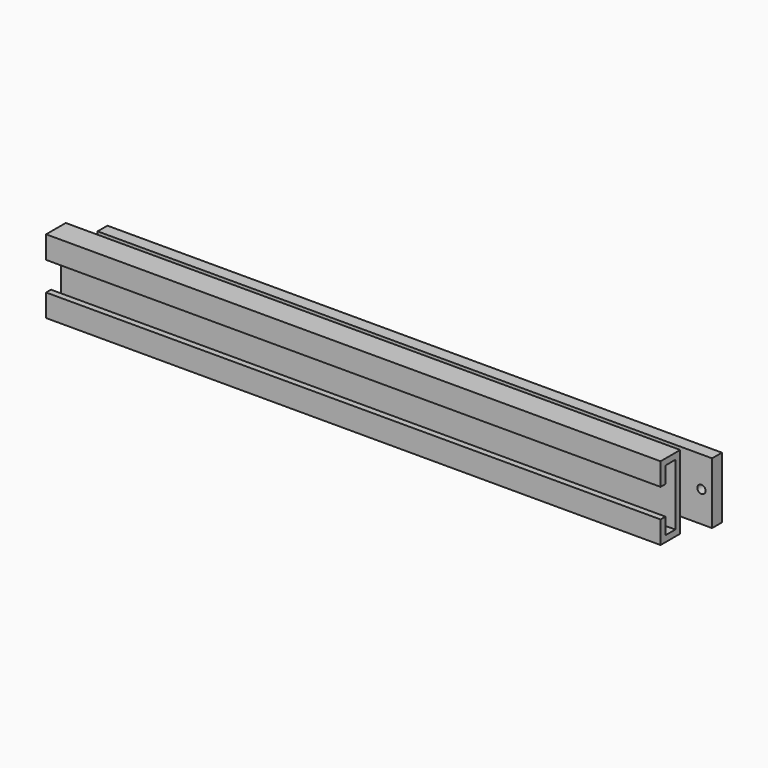
from build123d import *

# Parameters (mm, degrees)
F0_W     = 300
F0_H     = 30
F0_R     = 2
F1_DEPTH = 6
F3_DEPTH = 300


with BuildPart() as f1:
    # F0 (on Front) → F1 (new body)
    with BuildSketch(Plane.XZ):
        with Locations((150, 15)):
            Rectangle(F0_W, F0_H)
        with Locations((6.60236, 15)):
            Circle(F0_R, mode=Mode.SUBTRACT)
        with Locations((294.81864, 15)):
            Circle(F0_R, mode=Mode.SUBTRACT)
    extrude(amount=F1_DEPTH)


with BuildPart() as f3:
    # F2 (on Right) → F3 (new body)
    with BuildSketch(Plane.YZ):
        Polygon((-37.438527, 5.500001), (-25.438527, 5.500001), (-25.438527, 41.500001), (-37.438527, 41.500001), (-37.438527, 30.500001), (-34.438527, 30.500001), (-34.438527, 38.500001), (-28.438527, 38.500001), (-28.438527, 8.500001), (-34.438527, 8.500001), (-34.438527, 16.500001), (-37.438527, 16.500001), align=None)
    extrude(amount=F3_DEPTH)


solid = Compound([f1.part, f3.part])
